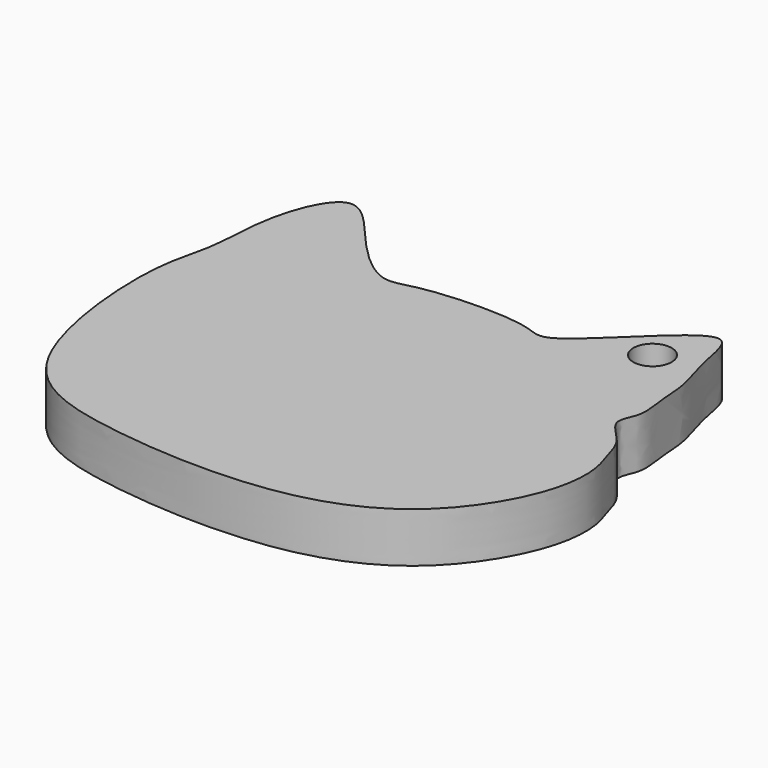
from build123d import *

# Parameters (mm, degrees)
F0_R     = 1.9198992317
F1_DEPTH = 5
F2_DEPTH = 5


with BuildPart() as f1:
    # F0 (on Top) → F1 (new body)
    with BuildSketch(Plane.XY):
        with BuildLine():
            add(Edge.make_bspline(
                [(26.6784001142, 14.0658579767), (29.1994978308, 15.469154404), (37.4576928284, 25.5592311161), (38.2493636, 18.2220232244), (39.7660782, 14.2852116855), (39.7330957197, 11.2584319559), (40.4142529351, 8.1481930144), (38.7631377055, 5.9490654612), (41.6957829837, 3.8037596771), (42.3439099187, 1.291551609), (43.3306750675, -1.3826458131), (42.9300575442, -6.847632001), (37.5019102798, -15.855180606), (26.155489419, -20.8383047343), (8.673976784, -20.0314578208), (-3.9707653425, -16.0447913505), (-5.739862189, 4.0285809878), (-3.5362480258, 9.1945666947), (-3.7996734924, 16.3939060806), (-0.2138108221, 24.3704013659), (4.7948254245, 17.5302057233), (9.6816729832, 13.0051582338), (12.7615028681, 14.2346959584), (18.3181790684, 14.7918323961), (24.1456502717, 14.4637499051), (25.5331166857, 13.4283689445), (26.6784001142, 14.0658579767)],
                knots=[0, 0, 0, 0, 0.0606154439, 0.0936905444, 0.130316045, 0.159557906, 0.1891070356, 0.2138844454, 0.2432744635, 0.2705318723, 0.2982691835, 0.3367118286, 0.3900384471, 0.448823492, 0.5193795533, 0.5777504188, 0.6491830381, 0.6899840755, 0.7357842444, 0.7774221699, 0.8200273494, 0.8633614032, 0.891653998, 0.9321340145, 0.9724636364, 1, 1, 1, 1], degree=3))
        make_face()
        with Locations((34.5356091857, 16.674619168)):
            Circle(F0_R, mode=Mode.SUBTRACT)
    extrude(amount=F1_DEPTH)

    # F0 (on Top) → F2 (cut)
    with BuildSketch(Plane.XY):
        with BuildLine():
            add(Edge.make_bspline(
                [(26.6784001142, 14.0658579767), (29.1994978308, 15.469154404), (37.4576928284, 25.5592311161), (38.2493636, 18.2220232244), (39.7660782, 14.2852116855), (39.7330957197, 11.2584319559), (40.4142529351, 8.1481930144), (38.7631377055, 5.9490654612), (41.6957829837, 3.8037596771), (42.3439099187, 1.291551609), (43.3306750675, -1.3826458131), (42.9300575442, -6.847632001), (37.5019102798, -15.855180606), (26.155489419, -20.8383047343), (8.673976784, -20.0314578208), (-3.9707653425, -16.0447913505), (-5.739862189, 4.0285809878), (-3.5362480258, 9.1945666947), (-3.7996734924, 16.3939060806), (-0.2138108221, 24.3704013659), (4.7948254245, 17.5302057233), (9.6816729832, 13.0051582338), (12.7615028681, 14.2346959584), (18.3181790684, 14.7918323961), (24.1456502717, 14.4637499051), (25.5331166857, 13.4283689445), (26.6784001142, 14.0658579767)],
                knots=[0, 0, 0, 0, 0.0606154439, 0.0936905444, 0.130316045, 0.159557906, 0.1891070356, 0.2138844454, 0.2432744635, 0.2705318723, 0.2982691835, 0.3367118286, 0.3900384471, 0.448823492, 0.5193795533, 0.5777504188, 0.6491830381, 0.6899840755, 0.7357842444, 0.7774221699, 0.8200273494, 0.8633614032, 0.891653998, 0.9321340145, 0.9724636364, 1, 1, 1, 1], degree=3))
        make_face()
        with Locations((34.5356091857, 16.674619168)):
            Circle(F0_R, mode=Mode.SUBTRACT)
    extrude(amount=-F2_DEPTH, mode=Mode.SUBTRACT)


solid = f1.part
